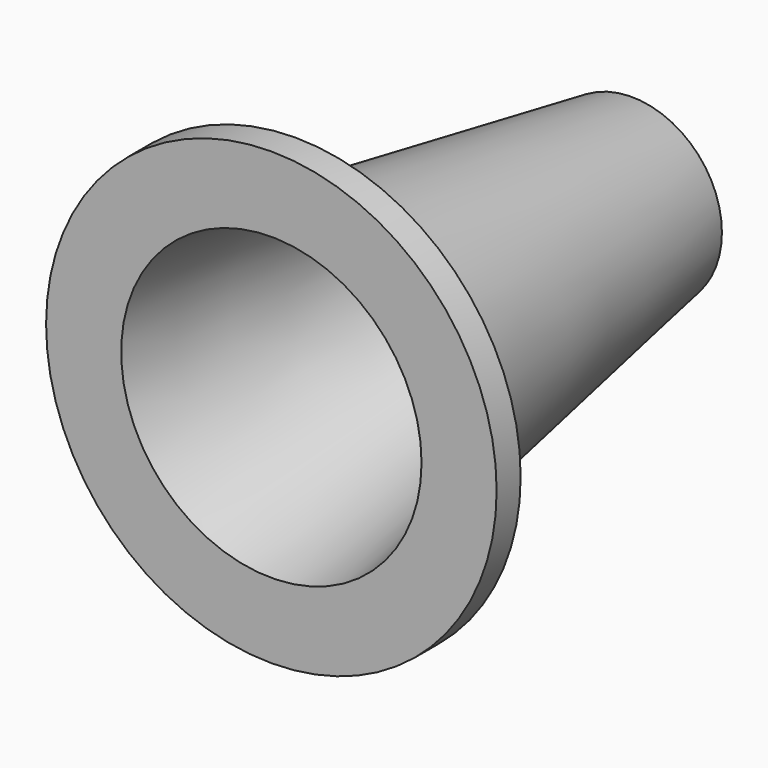
from build123d import *

# Parameters (mm, degrees)
F2_R     = 6
F0_R     = 11
F6_R     = 15
F7_DEPTH = 2
F5_R     = 5
F4_R     = 10


with BuildPart() as f3:
    # F2 (on offset) → F3 section 0
    with BuildSketch(Plane.XZ.offset(-30)):
        Circle(F2_R)
    # F0 (on Front) → F3 section 1
    with BuildSketch(Plane.XZ):
        Circle(F0_R)
    loft()

    # F6 (on Front) → F7 (join)
    with BuildSketch(Plane.XZ):
        Circle(F6_R)
    extrude(amount=-F7_DEPTH)

    # F5 (on offset) → F8 section 0
    with BuildSketch(Plane.XZ.offset(-30)):
        Circle(F5_R)
    # F4 (on Front) → F8 section 1
    with BuildSketch(Plane.XZ):
        Circle(F4_R)
    loft(mode=Mode.SUBTRACT)


solid = f3.part
